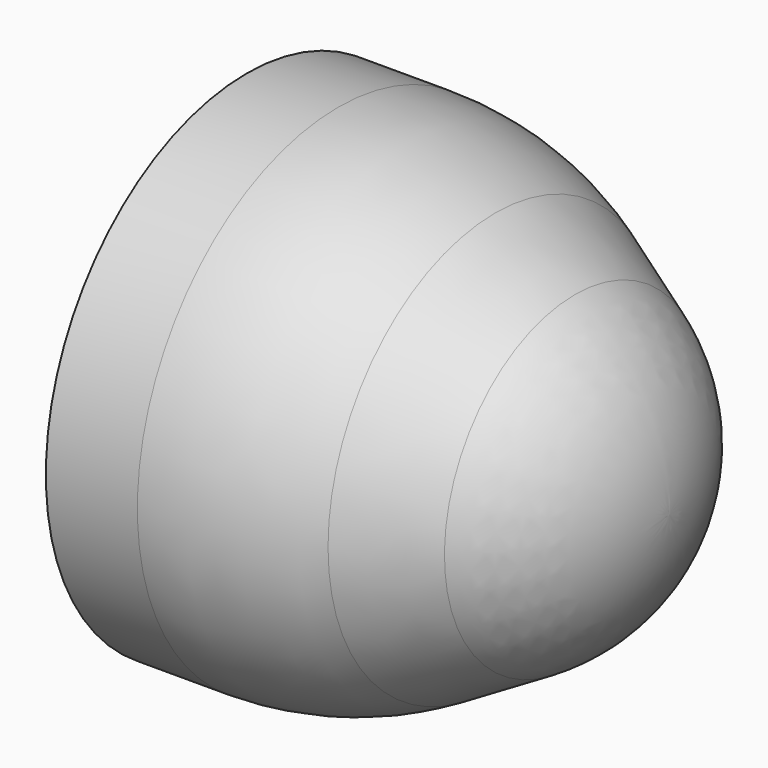
from build123d import *


with BuildPart() as f1:
    # F0 (on Front) → F1 (revolve)
    with BuildSketch(Plane.XZ):
        with BuildLine():
            Line((0, 4.5), (0, 1.75))
            Line((0, 1.75), (7.5, 1.75))
            Line((7.5, 1.75), (9.25, 0))
            Line((9.25, 0), (10.45, 0))
            ThreePointArc((10.45, 0), (9.646152, 3), (7.45, 5.196152))
            Line((7.45, 5.196152), (4.914102, 6.660254))
            ThreePointArc((4.914102, 6.660254), (2.502292, 7.659258), (-0.085898, 8))
            Line((-0.085898, 8), (-3, 8))
            Line((-3, 8), (-3, 4.5))
            Line((-3, 4.5), (0, 4.5))
        make_face()
    revolve(axis=Axis((9.85, 0, 0), (1, 0, 0)))


solid = f1.part
